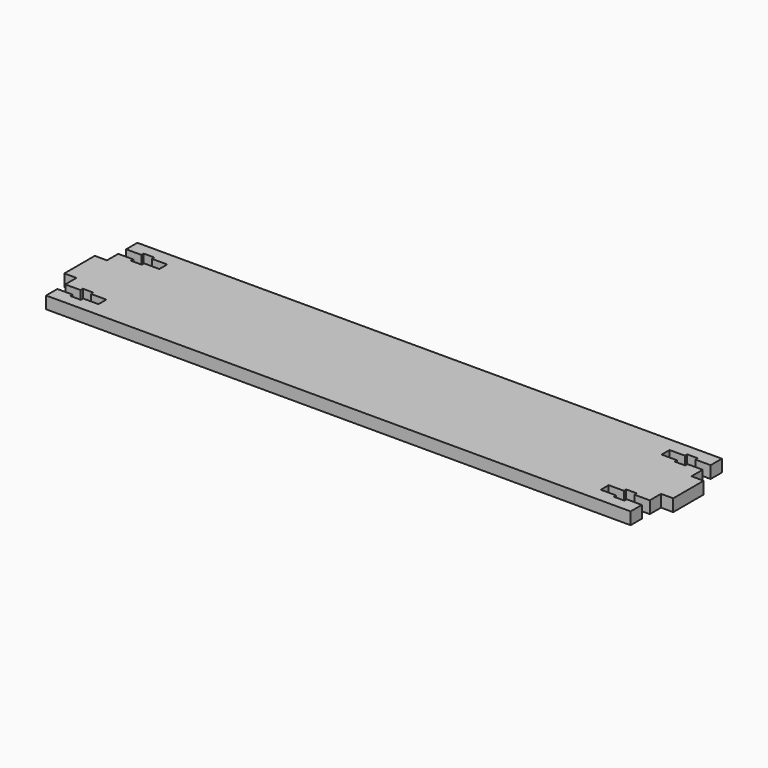
from build123d import *

# Parameters (mm, degrees)
F1_DEPTH = 8


with BuildPart() as f1:
    # F0 (on Top) → F1 (new body)
    with BuildSketch(Plane.XY):
        Polygon((0, 9.25), (0, 0), (384, 0), (384, 9.25), (374, 9.25), (374, 7.35), (367, 7.35), (367, 9.25), (357, 9.25), (357, 15.75), (367, 15.75), (367, 17.65), (374, 17.65), (374, 15.75), (384, 15.75), (384, 25), (392, 25), (392, 50), (384, 50), (384, 59.25), (374, 59.25), (374, 57.35), (367, 57.35), (367, 59.25), (357, 59.25), (357, 65.75), (367, 65.75), (367, 67.65), (374, 67.65), (374, 65.75), (384, 65.75), (384, 75), (0, 75), (0, 65.75), (10, 65.75), (10, 67.65), (17, 67.65), (17, 65.75), (27, 65.75), (27, 59.25), (17, 59.25), (17, 57.35), (10, 57.35), (10, 59.25), (0, 59.25), (0, 50), (-8, 50), (-8, 25), (0, 25), (0, 15.75), (10, 15.75), (10, 17.65), (17, 17.65), (17, 15.75), (27, 15.75), (27, 9.25), (17, 9.25), (17, 7.35), (10, 7.35), (10, 9.25), align=None)
    extrude(amount=F1_DEPTH)


solid = f1.part
